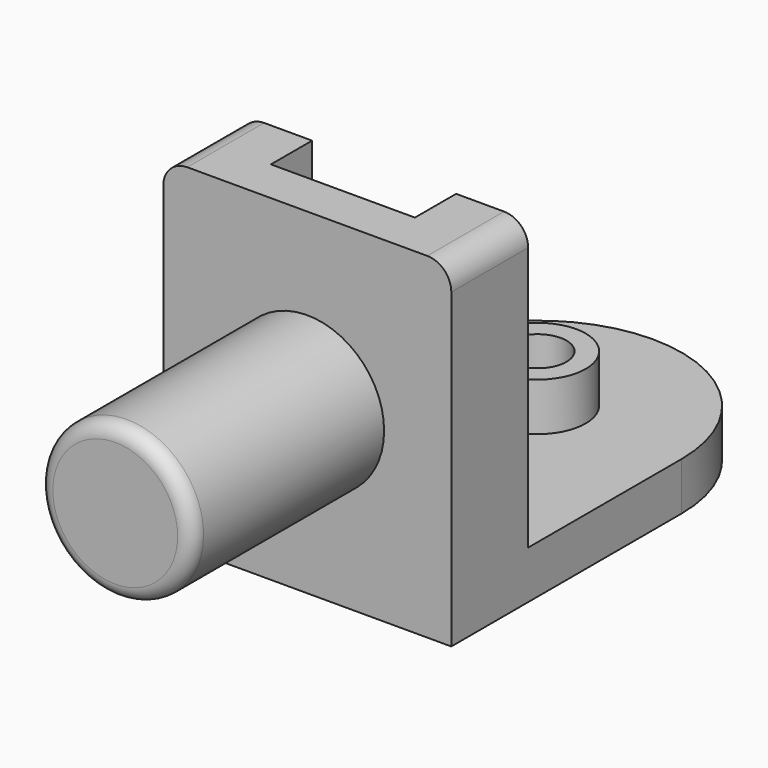
from build123d import *

# Parameters (mm, degrees)
F0_R      = 10
F1_DEPTH  = 10
F0_R_2    = 6
F2_DEPTH  = 20
F0_W      = 60
F0_H      = 20
F3_DEPTH  = 70
F4_R      = 16
F5_DEPTH  = 50
F6_R      = 3
F9_DEPTH  = 65.4
F10_DEPTH = 15
F11_DEPTH = 15
F12_R     = 5
F13_R     = 5


with BuildPart() as f1:
    # F0 (on Top) → F1 (new body)
    with BuildSketch(Plane.XY):
        with BuildLine():
            Line((-38.7446990098, 40), (-38.7446990098, 0))
            Line((-38.7446990098, 0), (21.2553009902, 0))
            Line((21.2553009902, 0), (21.2553009902, 40))
            ThreePointArc((21.2553009902, 40), (12.4685044258, 61.2132034356), (-8.7446990098, 70))
            ThreePointArc((-8.7446990098, 70), (-29.9579024454, 61.2132034356), (-38.7446990098, 40))
        make_face()
        with Locations((-8.7446990098, 40)):
            Circle(F0_R, mode=Mode.SUBTRACT)
    extrude(amount=F1_DEPTH)

    # F0 (on Top) → F2 (join)
    with BuildSketch(Plane.XY):
        with Locations((-8.7446990098, 40)):
            Circle(F0_R)
        with Locations((-8.7446990098, 40)):
            Circle(F0_R_2, mode=Mode.SUBTRACT)
    extrude(amount=F2_DEPTH)

    # F0 (on Top) → F3 (join)
    with BuildSketch(Plane.XY):
        with Locations((-8.7446990098, -10)):
            Rectangle(F0_W, F0_H)
    extrude(amount=F3_DEPTH)

    # F4 (on face) → F5 (join)
    with BuildSketch(Plane.XZ.offset(20)):
        with Locations((-8.7446990098, 35)):
            Circle(F4_R)
    extrude(amount=F5_DEPTH)

    # F6
    f6_edges = [f1.edges().sort_by_distance(p)[0] for p in [
        (-24.744699, -70, 35),
    ]]
    fillet(f6_edges, radius=F6_R)

    # F8 (on face) → F9 (cut)
    with BuildSketch(Plane(origin=(-38.7446990098, 0, 0), x_dir=(0, -1, 0), z_dir=(-1, 0, 0))):
        Polygon((10.7179676972, 70), (0, 70), (0, 30), align=None)
    extrude(amount=-F9_DEPTH, mode=Mode.SUBTRACT)

    # F8 (on face) → F10 (join)
    with BuildSketch(Plane(origin=(-38.7446990098, 0, 0), x_dir=(0, -1, 0), z_dir=(-1, 0, 0))):
        Polygon((10.7179676972, 70), (0, 30), (0, 10), (-40, 10), (-40, 0), (20, 0), (20, 70), align=None)
        Polygon((10.7179676972, 70), (0, 70), (0, 30), align=None)
    extrude(amount=-F10_DEPTH)

    # F7 (on face) → F11 (join)
    with BuildSketch(Plane.YZ.offset(21.2553009902)):
        Polygon((0, 10), (0, 30), (-10.7179676972, 70), (-20, 70), (-20, 0), (40, 0), (40, 10), align=None)
        Polygon((0, 30), (0, 70), (-10.7179676972, 70), align=None)
    extrude(amount=-F11_DEPTH)

    # F12
    f12_edges = [f1.edges().sort_by_distance(p)[0] for p in [
        (21.255301, -10, 70),
    ]]
    fillet(f12_edges, radius=F12_R)

    # F13
    f13_edges = [f1.edges().sort_by_distance(p)[0] for p in [
        (-38.744699, -10, 70),
    ]]
    fillet(f13_edges, radius=F13_R)


solid = f1.part
